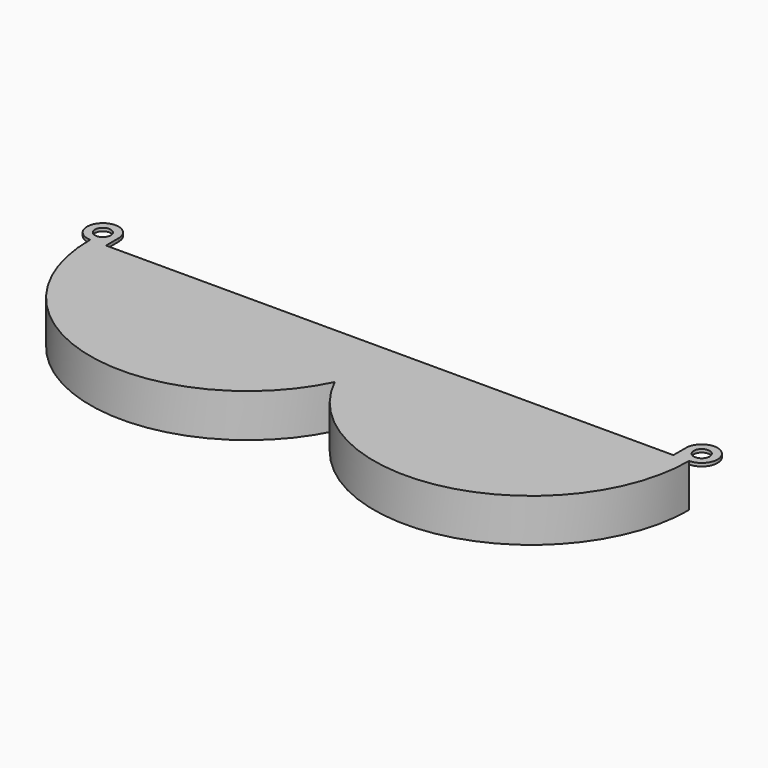
from build123d import *

# Parameters (mm, degrees)
SKETCH_R     = 2.5
PAD_DEPTH    = 1
PAD001_DEPTH = 12.7


with BuildPart() as part:
    # Sketch → Pad (new body)
    with BuildSketch(Plane.XY):
        with BuildLine():
            ThreePointArc((0, -21.794495), (56.18034, -48.733972), (95, 0))
            ThreePointArc((95, 0), (98.535534, 8.535534), (90, 5))
            Line((90, 5), (90, 0))
            Line((-90, 0), (90, 0))
            Line((-90, 5), (-90, 0))
            ThreePointArc((-90, 5), (-98.535534, 8.535534), (-95, 0))
            ThreePointArc((-95, 0), (-56.18034, -48.733972), (0, -21.794495))
        make_face()
        with Locations((95, 5)):
            Circle(SKETCH_R, mode=Mode.SUBTRACT)
        with Locations((-95, 5)):
            Circle(SKETCH_R, mode=Mode.SUBTRACT)
    extrude(amount=PAD_DEPTH)

    # Sketch001 (on Face10 of Pad) → Pad001 (join)
    with BuildSketch(Plane(origin=(0, 0, 0), x_dir=(1, 0, 0), z_dir=(0, 0, -1))):
        with BuildLine():
            Line((-95, 0), (-85.5, 19.615045))
            ThreePointArc((0, 0), (-34.937694, 43.860575), (-85.5, 19.615045))
            ThreePointArc((85.5, 19.615045), (34.937694, 43.860575), (0, 0))
            Line((95, 0), (85.5, 19.615045))
            ThreePointArc((95, 0), (56.18034, 48.733972), (0, 21.794495))
            ThreePointArc((0, 21.794495), (-56.18034, 48.733972), (-95, 0))
        make_face()
    extrude(amount=PAD001_DEPTH)


solid = part.part
